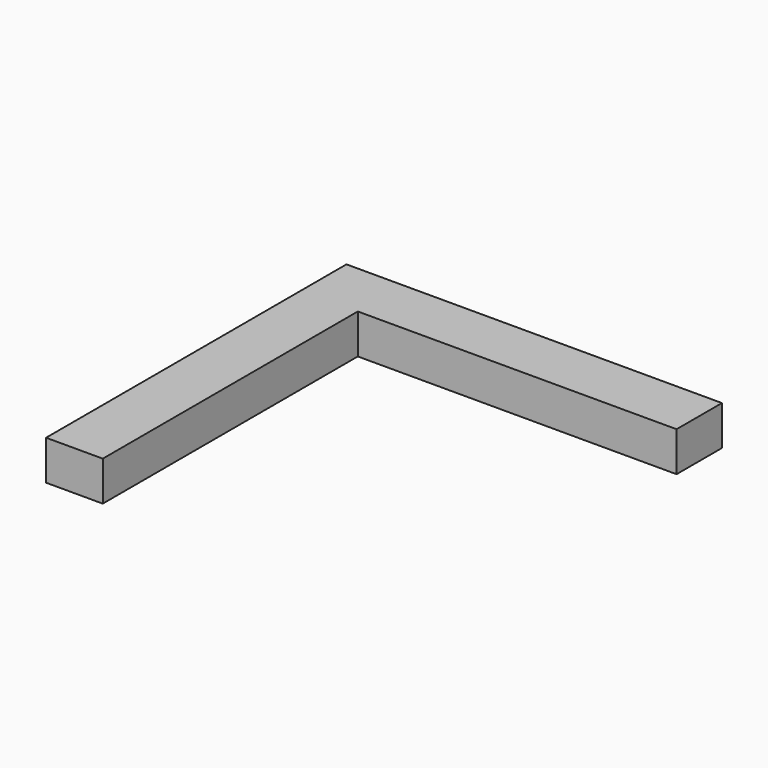
from build123d import *

# Parameters (mm, degrees)
F1_DEPTH = 20.55
F2_W     = 14.525
F2_H     = 29.4
F2_W_2   = 29.4
F2_H_2   = 14.525
F3_DEPTH = 20.551
F4_W     = 29.4
F4_H     = 30
F4_W_2   = 30
F4_H_2   = 29.4
F5_DEPTH = 20.55


with BuildPart() as f1:
    # F0 (on Top) → F1 (new body)
    with BuildSketch(Plane.XY):
        Polygon((-60.225, 60.225), (89.625, 60.225), (89.625, 89.625), (-89.625, 89.625), (-89.625, -89.625), (-60.225, -89.625), align=None)
    extrude(amount=F1_DEPTH)

    # F2 (on face) → F3 (cut, through all)
    with BuildSketch(Plane.XY.offset(20.55)):
        with Locations((82.3625, 74.925)):
            Rectangle(F2_W, F2_H)
        with Locations((-74.925, -82.3625)):
            Rectangle(F2_W_2, F2_H_2)
    extrude(amount=-F3_DEPTH, mode=Mode.SUBTRACT)

    # F4 (on Top) → F5 (join, through all)
    with BuildSketch(Plane.XY):
        with Locations((-74.925, -90.1)):
            Rectangle(F4_W, F4_H)
        with Locations((90.1, 74.925)):
            Rectangle(F4_W_2, F4_H_2)
    extrude(amount=F5_DEPTH)


solid = f1.part
